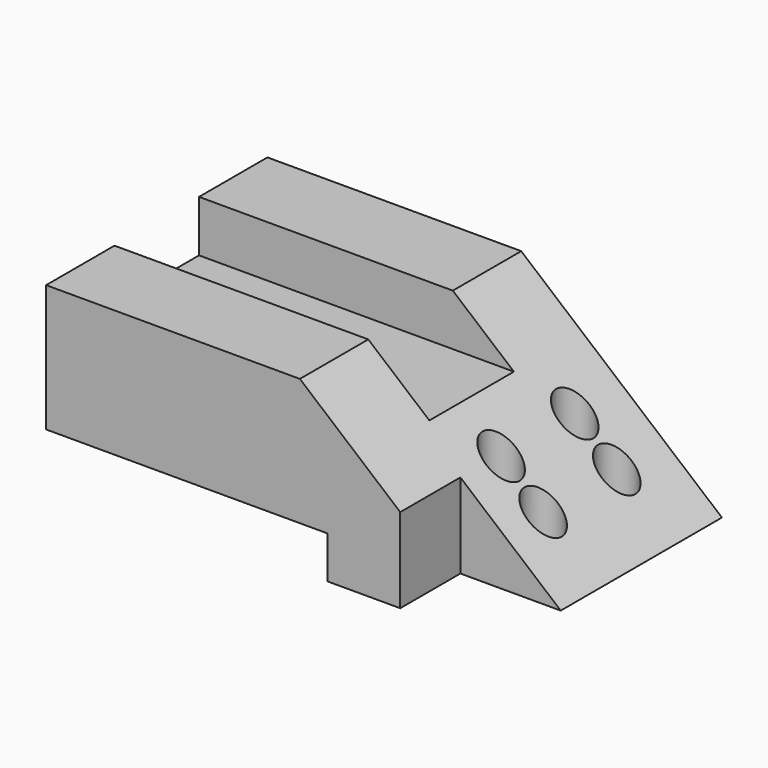
from build123d import *

# Parameters (mm, degrees)
F1_DEPTH  = 76.2
F3_W      = 58.20692
F3_H      = 57.454397
F4_DEPTH  = 215.138
F6_DEPTH  = 154.686
F7_W      = 56.875151
F7_H      = 62.153444
F8_DEPTH  = 41.402
F9_W      = 44.515941
F9_H      = 35.404432
F10_DEPTH = 154.94
F11_R     = 10.245483
F12_DEPTH = 93.251692


with BuildPart() as f1:
    # F0 (on Front) → F1 (new body, symmetric)
    with BuildSketch(Plane.XZ):
        Polygon((69.90508, 46.625346), (-69.90508, 46.625346), (-69.90508, -46.625346), (69.90508, -46.625346), (180.455416, -46.625346), align=None)
    extrude(amount=F1_DEPTH, both=True)

    # F3 (on face) → F4 (cut)
    with BuildSketch(Plane(origin=(-69.90508, 0, 0), x_dir=(0, -1, 0), z_dir=(-1, 0, 0))):
        with Locations((0, 46.984415)):
            Rectangle(F3_W, F3_H)
    extrude(amount=-F4_DEPTH, mode=Mode.SUBTRACT)

    # F5 (on face) → F6 (cut)
    with BuildSketch(Plane.XZ.offset(76.2)):
        Polygon((185.93514, 8.272756), (115.37275, 8.272756), (180.455416, -46.625346), (115.37275, -46.625346), (115.37275, -61.852183), (185.93514, -61.852183), align=None)
    extrude(amount=-F6_DEPTH, mode=Mode.SUBTRACT)

    # F7 (on face) → F8 (cut)
    with BuildSketch(Plane.XZ.offset(76.2)):
        with Locations((153.617823, -31.076722)):
            Rectangle(F7_W, F7_H)
    extrude(amount=-F8_DEPTH, mode=Mode.SUBTRACT)

    # F9 (on face) → F10 (cut)
    with BuildSketch(Plane(origin=(-69.90508, 0, 0), x_dir=(0, -1, 0), z_dir=(-1, 0, 0))):
        with Locations((63.042035, -41.065147)):
            Rectangle(F9_W, F9_H)
    extrude(amount=-F10_DEPTH, mode=Mode.SUBTRACT)

    # F11 (on face) → F12 (cut, through all)
    with BuildSketch(Plane(origin=(0, 0, -46.625346), x_dir=(1, 0, 0), z_dir=(0, 0, -1))):
        with Locations((148.977362, 7.559244)):
            Circle(F11_R)
        with Locations((148.977362, -43.140469)):
            Circle(F11_R)
        with Locations((125.823924, 7.559244)):
            Circle(F11_R)
        with Locations((125.823924, -43.140469)):
            Circle(F11_R)
    extrude(amount=-F12_DEPTH, mode=Mode.SUBTRACT)


solid = f1.part
